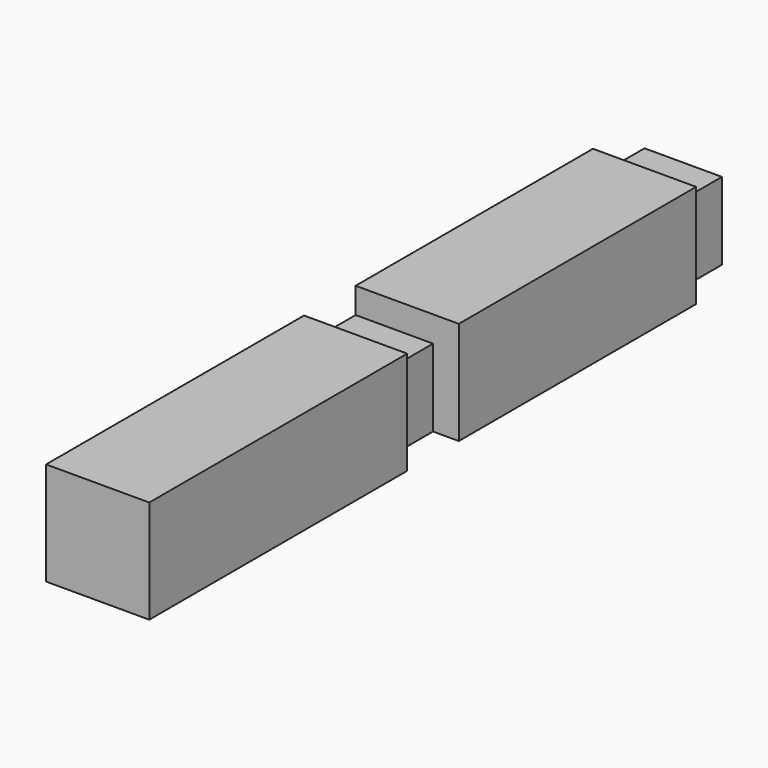
from build123d import *

# Parameters (mm, degrees)
F0_W     = 80
F0_H     = 80
F1_DEPTH = 580
F2_W     = 80
F2_H     = 50
F3_DEPTH = 20
F4_W     = 50
F4_H     = 60
F5_DEPTH = 20
F6_W     = 80
F6_H     = 50
F7_DEPTH = 20
F8_W     = 50
F8_H     = 60
F9_DEPTH = 20


with BuildPart() as f1:
    # F0 (on Front) → F1 (new body)
    with BuildSketch(Plane.XZ):
        with Locations((4.566346, -9.518241)):
            Rectangle(F0_W, F0_H)
    extrude(amount=-F1_DEPTH)

    # F2 (on face) → F3 (cut)
    with BuildSketch(Plane.XY.offset(30.481759)):
        with Locations((4.566346, 275)):
            Rectangle(F2_W, F2_H)
    extrude(amount=-F3_DEPTH, mode=Mode.SUBTRACT)

    # F4 (on face) → F5 (cut)
    with BuildSketch(Plane.YZ.offset(44.566346)):
        with Locations((275, -19.518241)):
            Rectangle(F4_W, F4_H)
    extrude(amount=-F5_DEPTH, mode=Mode.SUBTRACT)

    # F6 (on face) → F7 (cut)
    with BuildSketch(Plane.XY.offset(30.481759)):
        with Locations((4.566346, 555)):
            Rectangle(F6_W, F6_H)
    extrude(amount=-F7_DEPTH, mode=Mode.SUBTRACT)

    # F8 (on face) → F9 (cut)
    with BuildSketch(Plane.YZ.offset(44.566346)):
        with Locations((555, -19.518241)):
            Rectangle(F8_W, F8_H)
    extrude(amount=-F9_DEPTH, mode=Mode.SUBTRACT)


solid = f1.part
